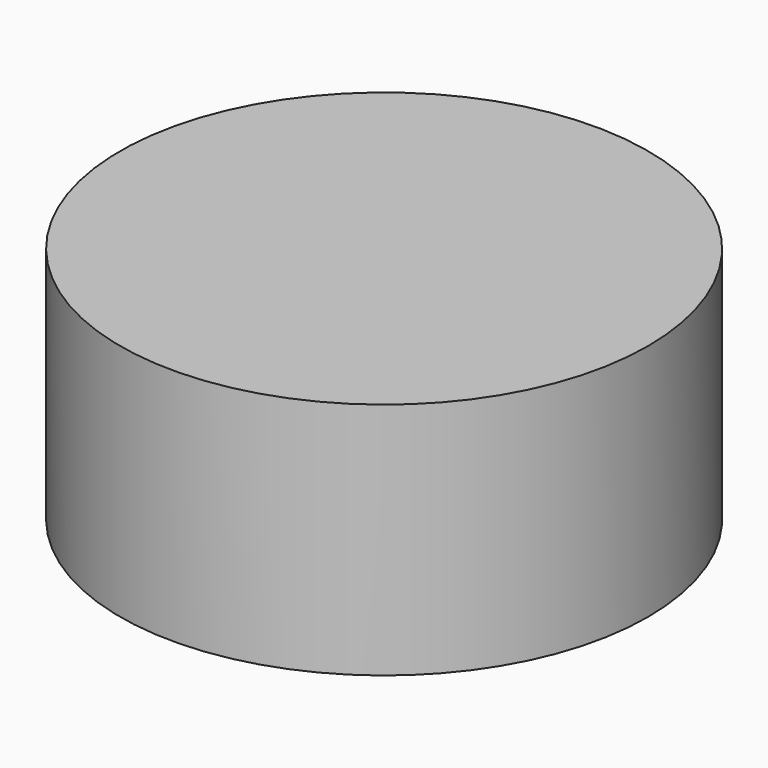
from build123d import *

# Parameters (mm, degrees)
F0_R     = 28.1156832237
F1_DEPTH = 25.4
F2_T     = -2.54
F3_R     = 5.08


with BuildPart() as f1:
    # F0 (on Top) → F1 (new body)
    with BuildSketch(Plane.XY):
        Circle(F0_R)
    extrude(amount=F1_DEPTH)

    # F2
    f2_openings = [f1.faces().sort_by_distance(p)[0] for p in [
        (0, 0, 0),
    ]]
    offset(amount=F2_T, openings=f2_openings)

    # F3
    f3_edges = [f1.edges().sort_by_distance(p)[0] for p in [
        (-25.575683, 0, 22.86),
    ]]
    fillet(f3_edges, radius=F3_R)


solid = f1.part
